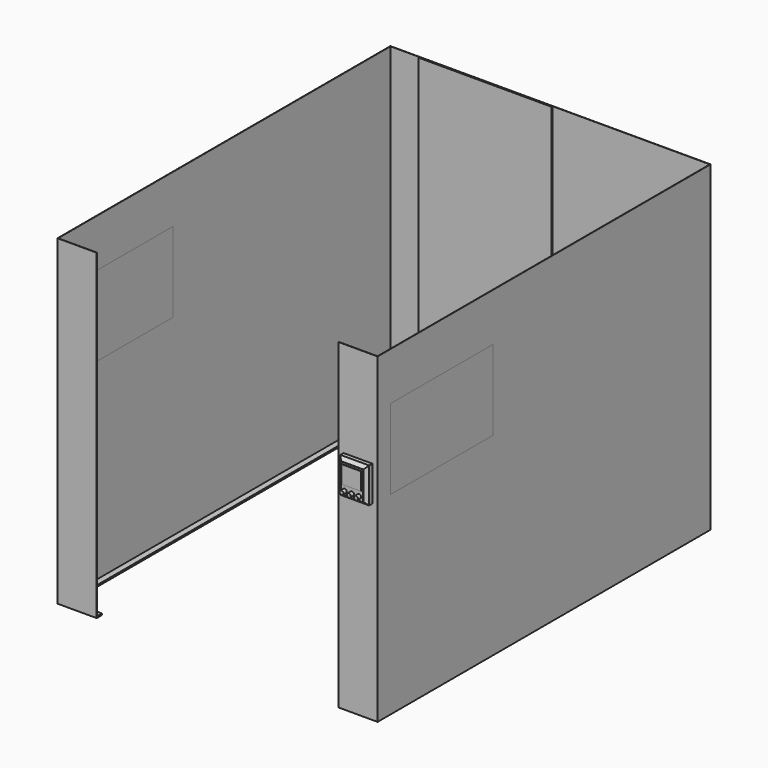
from build123d import *

# Parameters (mm, degrees)
F1_DEPTH   = 10
F3_DEPTH   = 2000
F5_DEPTH   = 2000
F6_W       = 830
F6_H       = 2000
F7_DEPTH   = 10
F8_W       = 800
F8_H       = 500
F9_DEPTH   = 5
F10_W      = 800
F10_H      = 500
F11_DEPTH  = 5
F12_W      = 800
F12_H      = 500
F13_DEPTH  = 2
F14_W      = 800
F14_H      = 500
F15_DEPTH  = 2
F17_W      = 180
F17_H      = 220
F18_DEPTH  = 25
F18_FACE_W = 180
F18_FACE_H = 220
F20_W      = 140
F20_H      = 180
F22_DEPTH  = 2
F23_R      = 12.5
F24_DEPTH  = 25
F25_W      = 116
F25_H      = 110
F26_DEPTH  = 3


with BuildPart() as f1:
    # F0 (on Top) → F1 (new body)
    with BuildSketch(Plane.XY):
        Polygon((-755, -20), (-755, 0), (-755, 20), (-960, 20), (-960, 2540), (-800, 2540), (-800, 2580), (-1000, 2580), (-1000, 2540), (-1000, 20), (-1000, 0), (-1000, -20), align=None)
    extrude(amount=F1_DEPTH)

    # F2 (on face) → F3 (join)
    with BuildSketch(Plane.XY.offset(10)):
        Polygon((-800, 2578), (-800, 2580), (-1000, 2580), (-1000, -20), (-755, -20), (-755, -18), (-998, -18), (-998, 2578), align=None)
    extrude(amount=F3_DEPTH)

    # F10 (on face) → F11 (cut)
    with BuildSketch(Plane(origin=(-1000, 0, 0), x_dir=(0, -1, 0), z_dir=(-1, 0, 0))):
        with Locations((-480, 1460)):
            Rectangle(F10_W, F10_H)
    extrude(amount=-F11_DEPTH, mode=Mode.SUBTRACT)


with BuildPart() as f1b:
    # F0 (on Top) → F1, piece 2 (new body)
    with BuildSketch(Plane.XY):
        Polygon((755, 20), (755, 0), (755, -20), (1000, -20), (1000, 0), (1000, 20), (1000, 2540), (1000, 2580), (0, 2580), (0, 2540), (960, 2540), (960, 20), align=None)
    extrude(amount=F1_DEPTH)

    # F4 (on face) → F5 (join)
    with BuildSketch(Plane.XY.offset(10)):
        Polygon((1000, 2580), (0, 2580), (0, 2578), (998, 2578), (998, -18), (755, -18), (755, -20), (1000, -20), align=None)
    extrude(amount=F5_DEPTH)

    # F8 (on face) → F9 (cut)
    with BuildSketch(Plane.YZ.offset(1000)):
        with Locations((480, 1460)):
            Rectangle(F8_W, F8_H)
    extrude(amount=-F9_DEPTH, mode=Mode.SUBTRACT)


with BuildPart() as f7:
    # F6 (on face) → F7 (new body)
    with BuildSketch(Plane(origin=(0, 2580, 0), x_dir=(-1, 0, 0), z_dir=(0, 1, 0))):
        with Locations((400, 1010)):
            Rectangle(F6_W, F6_H)
    extrude(amount=-F7_DEPTH)


with BuildPart() as f13:
    # F12 (on face) → F13 (new body)
    with BuildSketch(Plane(origin=(-1000, 0, 0), x_dir=(0, -1, 0), z_dir=(-1, 0, 0))):
        with Locations((-480, 1460)):
            Rectangle(F12_W, F12_H)
    extrude(amount=-F13_DEPTH)


with BuildPart() as f15:
    # F14 (on face) → F15 (new body)
    with BuildSketch(Plane.YZ.offset(1000)):
        with Locations((480, 1460)):
            Rectangle(F14_W, F14_H)
    extrude(amount=-F15_DEPTH)


with BuildPart() as f18:
    # F17 (on face) → F18 (new body)
    with BuildSketch(Plane.XZ.offset(20)):
        with Locations((877.5, 1300)):
            Rectangle(F17_W, F17_H)
    extrude(amount=F18_DEPTH)


with BuildPart() as f21:
    # F18_face (on face) → F21 section 0
    with BuildSketch(Plane(origin=(877.5, -45, 1300), x_dir=(1, 0, 0), z_dir=(0, -1, 0))):
        Rectangle(F18_FACE_W, F18_FACE_H)
    # F20 (on offset) → F21 section 1
    with BuildSketch(Plane.XZ.offset(65)):
        with Locations((877.5, 1300)):
            Rectangle(F20_W, F20_H)
    loft()


with BuildPart() as f22:
    # F22 (new, symmetric): a face of the model
    f22_faces = [f21.part.faces().sort_by_distance(p)[0] for p in [
        (877.5, -65, 1300),
    ]]
    extrude(f22_faces, amount=F22_DEPTH, both=True)


with BuildPart() as f24:
    # F23 (on face) → F24 (new body)
    with BuildSketch(Plane.XZ.offset(67)):
        with Locations((877.5, 1235)):
            Circle(F23_R)
    extrude(amount=F24_DEPTH)


with BuildPart() as f24b:
    # F23 (on face) → F24, piece 2 (new body)
    with BuildSketch(Plane.XZ.offset(67)):
        with Locations((832.5, 1235)):
            Circle(F23_R)
    extrude(amount=F24_DEPTH)


with BuildPart() as f24c:
    # F23 (on face) → F24, piece 3 (new body)
    with BuildSketch(Plane.XZ.offset(67)):
        with Locations((922.5, 1235)):
            Circle(F23_R)
    extrude(amount=F24_DEPTH)


with BuildPart() as f26:
    # F25 (on face) → F26 (new body)
    with BuildSketch(Plane.XZ.offset(67)):
        with Locations((877.5, 1323)):
            Rectangle(F25_W, F25_H)
        with Locations((877.5, 1323)):
            Rectangle(F25_W, F25_H)
    extrude(amount=F26_DEPTH)


solid = Compound([f1.part, f1b.part, f7.part, f13.part, f15.part, f18.part, f21.part, f22.part, f24.part, f24b.part, f24c.part, f26.part])
